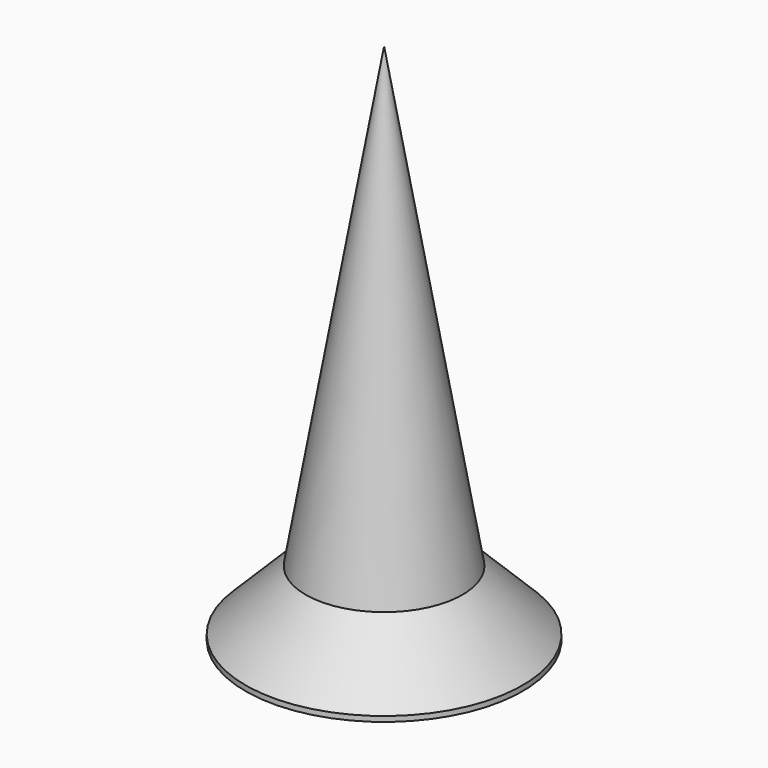
from build123d import *

# Parameters (mm, degrees)
POCKET005_DEPTH         = 0.3
POLARPATTERN001_COUNT   = 2
POLARPATTERN001_ANGLE   = 90
BODY015_PLACEMENT_ANGLE = 180


with BuildPart() as part:
    # Sketch028 → Revolution001 (revolve)
    with BuildSketch(Plane.XZ):
        Polygon((0, 0), (0, -10), (1.5, -1.25), (2.65, -0.1), (2.65, 0), align=None)
    revolve(axis=Axis((0, 0, 0), (0, 0, 1)))

    # Sketch029 → Pocket005 (cut, symmetric)
    with BuildSketch(Plane.XZ):
        Polygon((-2, 0), (0, -2), (2, 0), align=None)
    pocket005 = extrude(amount=POCKET005_DEPTH, both=True, mode=Mode.SUBTRACT)

    # PolarPattern001: Pocket005 ×2 about axis
    polarpattern001_axis = Axis((0, 0, 0), (0, 0, 1))
    for i in range(1, POLARPATTERN001_COUNT):
        add(pocket005.rotate(polarpattern001_axis, i * POLARPATTERN001_ANGLE / (POLARPATTERN001_COUNT - 1)), mode=Mode.SUBTRACT)


with BuildPart() as part_1:
    # Body015 placement: moved
    add(part.part.moved(Location((-30, 55, -6))).rotate(Axis((-30, 55, -6), (0, 1, 0)), BODY015_PLACEMENT_ANGLE))


solid = part_1.part
